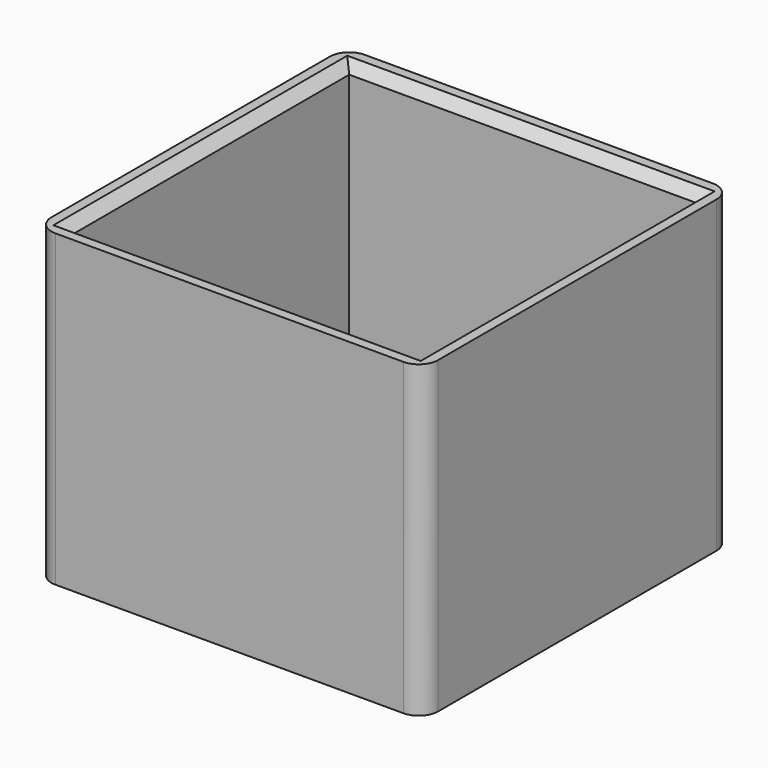
from build123d import *

# Parameters (mm, degrees)
F0_W     = 100
F0_H     = 80
F1_DEPTH = 100
F2_T     = -5
F3_SIZE  = 2.5
F4_R     = 5


with BuildPart() as f1:
    # F0 (on Front) → F1 (new body)
    with BuildSketch(Plane.XZ):
        with Locations((1.5594035387, 1.0211700201)):
            Rectangle(F0_W, F0_H)
    extrude(amount=F1_DEPTH)

    # F2
    f2_openings = [f1.faces().sort_by_distance(p)[0] for p in [
        (1.559404, -50, 41.02117),
    ]]
    offset(amount=F2_T, openings=f2_openings)

    # F3
    f3_edges = [f1.edges().sort_by_distance(p)[0] for p in [
        (1.559404, -5, 41.02117),
        (-43.440596, -50, 41.02117),
        (1.559404, -95, 41.02117),
        (46.559404, -50, 41.02117),
    ]]
    chamfer(f3_edges, length=F3_SIZE)

    # F4
    f4_edges = [f1.edges().sort_by_distance(p)[0] for p in [
        (-48.440596, -100, 1.02117),
        (51.559404, -100, 1.02117),
        (51.559404, 0, 1.02117),
        (-48.440596, 0, 1.02117),
    ]]
    fillet(f4_edges, radius=F4_R)


solid = f1.part
